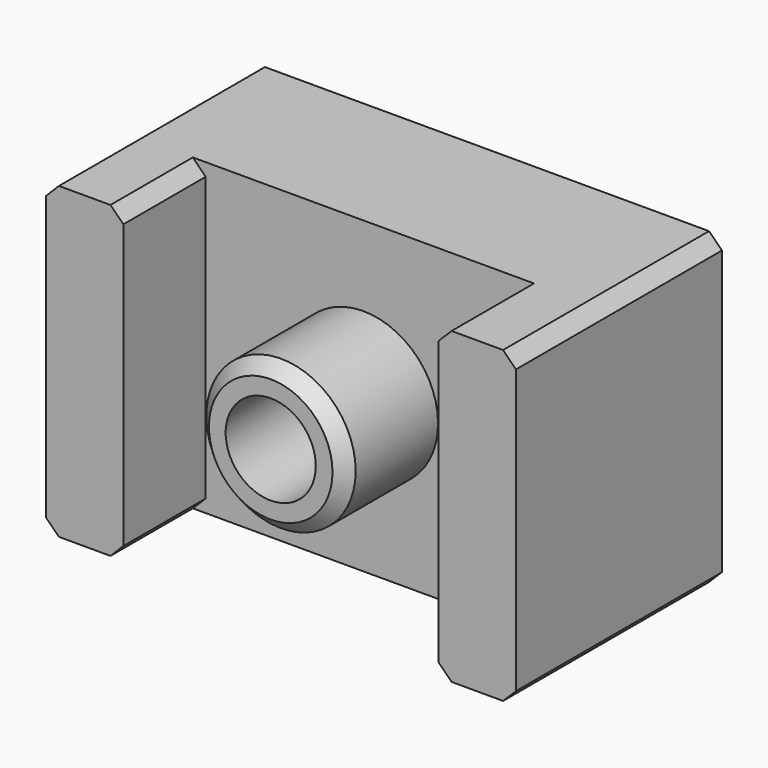
from build123d import *

# Parameters (mm, degrees)
PAD_DEPTH       = 12
SKETCH001_R     = 2.9
PAD001_DEPTH    = 4.5
SKETCH002_R     = 1.75
POCKET_DEPTH    = 10.501
SKETCH003_R     = 2.2
POCKET001_DEPTH = 5
CHAMFER_SIZE    = 0.5
CHAMFER001_SIZE = 0.5


with BuildPart() as part:
    # Sketch → Pad (new body)
    with BuildSketch(Plane.XY):
        Polygon((-9.125, -4), (-6.125, -4), (-6.125, 0), (6.125, 0), (6.125, -4), (9.125, -4), (9.125, 6), (-9.125, 6), align=None)
    extrude(amount=PAD_DEPTH)

    # Sketch001 (on Face3 of Pad) → Pad001 (join)
    with BuildSketch(Plane.XZ):
        with Locations((0, 6)):
            Circle(SKETCH001_R)
    extrude(amount=PAD001_DEPTH)

    # Sketch002 (on Face12 of Pad001) → Pocket (cut, through all)
    with BuildSketch(Plane.XZ.offset(4.5)):
        with Locations((0, 6)):
            Circle(SKETCH002_R)
    extrude(amount=-POCKET_DEPTH, mode=Mode.SUBTRACT)

    # Sketch003 (on Face6 of Pocket) → Pocket001 (cut)
    with BuildSketch(Plane(origin=(0, 6, 0), x_dir=(-1, 0, 0), z_dir=(0, 1, 0))):
        with Locations((0, 6)):
            Circle(SKETCH003_R)
    extrude(amount=-POCKET001_DEPTH, mode=Mode.SUBTRACT)

    # Chamfer
    chamfer_edges = [part.edges().sort_by_distance(p)[0] for p in [
        (-2.9, -4.5, 6),
    ]]
    chamfer(chamfer_edges, length=CHAMFER_SIZE)

    # Chamfer001
    chamfer001_edges = [part.edges().sort_by_distance(p)[0] for p in [
        (-6.125, -2, 0),
        (-6.125, -2, 12),
        (6.125, -2, 0),
        (9.125, 1, 0),
        (9.125, 1, 12),
        (6.125, -2, 12),
        (-9.125, 1, 12),
        (-9.125, 1, 0),
    ]]
    chamfer(chamfer001_edges, length=CHAMFER001_SIZE)


solid = part.part
